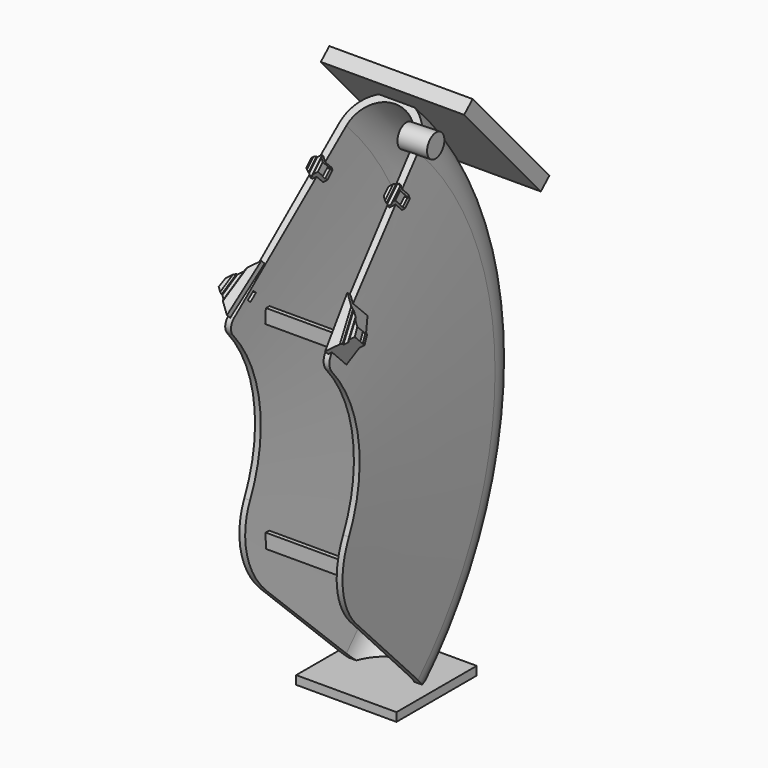
from build123d import *

# Parameters (mm, degrees)
REVOLUTION_ANGLE         = 90
FILLET_R                 = 8
FILLET001_R              = 52
PAD001_DEPTH             = 4
PAD001_DEPTH_BACK        = 8
SKETCH003_W              = 3
SKETCH003_H              = 15
POCKET_DEPTH             = 2
CHAMFER_SIZE             = 1
CHAMFER001_SIZE          = 10
POCKET001_DEPTH          = 200
POCKET001_DEPTH_BACK     = 100
BOX001_W                 = 70
BOX001_H                 = 70
BOX001_DEPTH             = 6
BOX002_W                 = 67
BOX002_H                 = 3
BOX002_DEPTH             = 10
BOX003_W                 = 68
BOX003_H                 = 3
BOX003_DEPTH             = 10
BOX_W                    = 100
BOX_H                    = 100
BOX_DEPTH                = 10
BOX_PLACEMENT_ANGLE      = 312
CYLINDER_R               = 8
CYLINDER_DEPTH           = 20
CYLINDER_ROLL_ANGLE      = -87.510447
CYLINDER_PITCH_ANGLE     = -87.510447
CYLINDER_PLACEMENT_ANGLE = 90


with BuildPart() as body:
    # Sketch → Revolution (revolve, symmetric)
    with BuildSketch(Plane.XY) as revolution_sk:
        with BuildLine():
            ThreePointArc((27.507267, 229.338864), (0, 255), (-27.507267, 229.338864))
            Line((-36.5, 100), (-27.507267, 229.338864))
            Line((-36.5, 100), (-32.5, 100))
            Line((-32.5, 100), (-22.5, 229.239629))
            ThreePointArc((22.5, 229.239629), (0, 250.06593), (-22.5, 229.239629))
            Line((22.5, 229.239629), (32.5, 100))
            Line((32.5, 100), (36.5, 100))
            Line((36.5, 100), (27.507267, 229.338864))
        make_face()
    revolve(axis=Axis((0, 0, 0), (1, 0, 0)), revolution_arc=REVOLUTION_ANGLE / 2)
    revolve(revolution_sk.sketch, axis=Axis((0, 0, 0), (-1, 0, 0)), revolution_arc=REVOLUTION_ANGLE / 2)

    # Fillet
    fillet_edges = [body.edges().sort_by_distance(p)[0] for p in [
        (34.5, 70.710678, 70.710678),
        (-34.5, 70.710678, 70.710678),
    ]]
    fillet(fillet_edges, radius=FILLET_R)

    # Fillet001
    fillet001_edges = [body.edges().sort_by_distance(p)[0] for p in [
        (34.5, 70.710678, -70.710678),
        (-34.5, 70.710678, -70.710678),
    ]]
    fillet(fillet001_edges, radius=FILLET001_R)

    # Sketch002 (on Face6 of Fillet001) → Pad001 (new body, two sides)
    with BuildSketch(Plane(origin=(0, 0, 0), x_dir=(1, 0, 0), z_dir=(0, -0.707107, 0.707107))) as pad001_sk:
        Polygon((-45.947086, 125.795555), (-47.5, 120), (-34.248819, 106.748819), (-30, 141.742641), align=None)
        Polygon((45.947086, 125.795555), (47.5, 120), (34.248819, 106.748819), (30, 141.742641), align=None)
        Polygon((27, 195), (31, 199), (31, 205), (27, 209), (23, 205), (23, 199), align=None)
        Polygon((-27, 195), (-23, 199), (-23, 205), (-27, 209), (-31, 205), (-31, 199), align=None)
    extrude(amount=PAD001_DEPTH)
    extrude(pad001_sk.sketch, amount=-PAD001_DEPTH_BACK)

    # Sketch003 (on Face29 of Pad001) → Pocket (cut)
    with BuildSketch(Plane(origin=(0, -2.828427, 2.828427), x_dir=(1, 0, 0), z_dir=(0, -0.707107, 0.707107))):
        with Locations((27.5, 202.02)):
            Rectangle(SKETCH003_W, SKETCH003_H)
        with Locations((-27.5, 202.02)):
            Rectangle(SKETCH003_W, SKETCH003_H)
        Polygon((35, 146.869795), (45, 97.88), (47.939388, 98.48), (37.939388, 147.469795), align=None)
        Polygon((-47.939388, 98.48), (-45, 97.88), (-35, 146.869795), (-37.939388, 147.469795), align=None)
    extrude(amount=-POCKET_DEPTH, mode=Mode.SUBTRACT)

    # Chamfer
    chamfer_edges = [body.edges().sort_by_distance(p)[0] for p in [
        (26, 140.007143, 145.663997),
        (-29, 140.007143, 145.663997),
        (-26, 140.007143, 145.663997),
        (29, 140.007143, 145.663997),
        (42.83068, 84.504531, 90.161385),
        (39.635693, 84.965688, 90.622542),
        (-39.635693, 84.965688, 90.622542),
        (-42.83068, 84.504531, 90.161385),
    ]]
    chamfer(chamfer_edges, length=CHAMFER_SIZE)

    # Chamfer001
    chamfer001_edges = [body.edges().sort_by_distance(p)[0] for p in [
        (34.872742, 92.733246, 81.419538),
        (-34.872742, 92.733246, 81.419538),
    ]]
    chamfer(chamfer001_edges, length=CHAMFER001_SIZE)

    # Sketch004 (on Face63 of Chamfer001) → Pocket001 (cut, two sides)
    with BuildSketch(Plane(origin=(-31, 0, 0), x_dir=(0, -1, 0), z_dir=(-1, 0, 0))) as pocket001_sk:
        Polygon((-148.66372, 140.816924), (-144.217595, 136.788032), (-142.203149, 139.011095), (-146.649274, 143.039987), align=None)
        Polygon((-86.842681, 82.856184), (-88.947857, 80.718841), (-93.222543, 84.929193), (-91.117367, 87.066536), align=None)
    extrude(amount=-POCKET001_DEPTH, mode=Mode.SUBTRACT)
    extrude(pocket001_sk.sketch, amount=POCKET001_DEPTH_BACK, mode=Mode.SUBTRACT)


with BuildPart() as cube001:
    # Box001 → Box001 (new body)
    with BuildSketch(Plane(origin=(-35, 134, -174), x_dir=(1, 0, 0), z_dir=(0, 0, 1))):
        with Locations((35, 35)):
            Rectangle(BOX001_W, BOX001_H)
    extrude(amount=BOX001_DEPTH)


with BuildPart() as cube002:
    # Box002 → Box002 (new body)
    with BuildSketch(Plane(origin=(-34, 102, -76), x_dir=(1, 0, 0), z_dir=(0, 0, 1))):
        with Locations((33.5, 1.5)):
            Rectangle(BOX002_W, BOX002_H)
    extrude(amount=BOX002_DEPTH)


with BuildPart() as cube003:
    # Box003 → Box003 (new body)
    with BuildSketch(Plane(origin=(-34, 102, 62), x_dir=(1, 0, 0), z_dir=(0, 0, 1))):
        with Locations((34, 1.5)):
            Rectangle(BOX003_W, BOX003_H)
    extrude(amount=BOX003_DEPTH)


with BuildPart() as cube:
    # Box → Box (new body)
    with BuildSketch(Plane.XY):
        with Locations((50, 50)):
            Rectangle(BOX_W, BOX_H)
    extrude(amount=BOX_DEPTH)


with BuildPart() as cube_1:
    # Box placement: moved
    add(cube.part.moved(Location((-41, 163, 195))).rotate(Axis((-41, 163, 195), (1, 0, 0)), BOX_PLACEMENT_ANGLE))


with BuildPart() as cylinder:
    # Cylinder → Cylinder (new body)
    with BuildSketch(Plane.XY):
        Circle(CYLINDER_R)
    extrude(amount=CYLINDER_DEPTH)


with BuildPart() as cylinder_1:
    # Cylinder roll: moved
    add(cylinder.part.rotate(Axis((0, 0, 0), (1, 0, 0)), CYLINDER_ROLL_ANGLE))


with BuildPart() as cylinder_2:
    # Cylinder pitch: moved
    add(cylinder_1.part.rotate(Axis((0, 0, 0), (0, 1, 0)), CYLINDER_PITCH_ANGLE))


with BuildPart() as cylinder_3:
    # Cylinder placement: moved
    add(cylinder_2.part.moved(Location((36, 167, 167))).rotate(Axis((36, 167, 167), (0, 0, 1)), CYLINDER_PLACEMENT_ANGLE))


solid = Compound([body.part, cube001.part, cube002.part, cube003.part, cube_1.part, cylinder_3.part])
